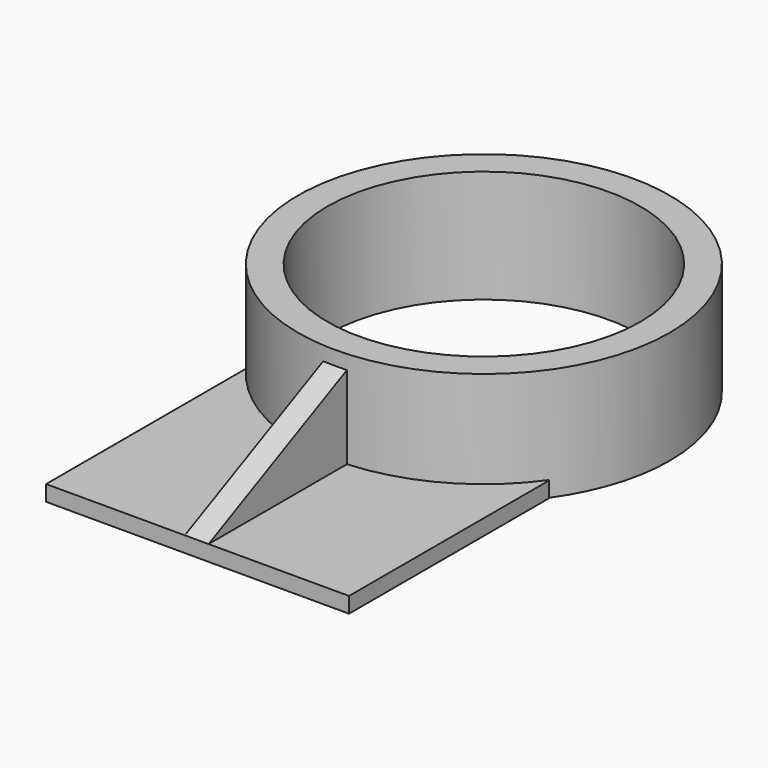
from build123d import *

# Parameters (mm, degrees)
F0_R      = 60.3592367884
F1_DEPTH  = 36.576
F2_W      = 98.3545593917
F2_H      = 66.0087950528
F3_DEPTH  = 5.08
F4_R      = 50.7859823722
F5_DEPTH  = 63.754
F6_DEPTH  = 15.24
F8_DEPTH  = 26.924
F10_DEPTH = 61.722


with BuildPart() as f1:
    # F0 (on Top) → F1 (new body)
    with BuildSketch(Plane.XY):
        Circle(F0_R)
    extrude(amount=F1_DEPTH)

    # F2 (on Top) → F3 (join)
    with BuildSketch(Plane.XY):
        with Locations((0.1538116485, -68.1532975286)):
            Rectangle(F2_W, F2_H)
    extrude(amount=F3_DEPTH)

    # F4 (on face) → F5 (cut)
    with BuildSketch(Plane.XY.offset(36.576)):
        Circle(F4_R)
    extrude(amount=-F5_DEPTH, mode=Mode.SUBTRACT)

    # F6 (add): a face of the model
    f6_faces = [f1.faces().sort_by_distance(p)[0] for p in [
        (0.1538116485, -101.157695055, 2.54),
    ]]
    extrude(f6_faces, amount=F6_DEPTH)

    # F7 (on face) → F8 (join)
    with BuildSketch(Plane.XY.offset(5.08)):
        with BuildLine():
            Line((-3.9780647494, -60.2436316555), (-3.9780647494, -116.397695055))
            Line((-3.9780647494, -116.397695055), (3.7339403637, -116.397695055))
            Line((3.7339403637, -116.397695055), (3.7339403637, -60.2436316555))
            ThreePointArc((3.7339403637, -60.2436316555), (0, -60.3592367884), (-3.7339403636, -60.2436316555))
            Line((-3.7339403636, -60.2436316555), (-3.9780647494, -60.2436316555))
        make_face()
    extrude(amount=F8_DEPTH)

    # F9 (on face) → F10 (cut)
    with BuildSketch(Plane.YZ.offset(3.7339403637)):
        Polygon((-116.397695055, 32.004), (-116.397695055, 5.08), (-60.2436316555, 32.004), align=None)
    extrude(amount=-F10_DEPTH, mode=Mode.SUBTRACT)


solid = f1.part
